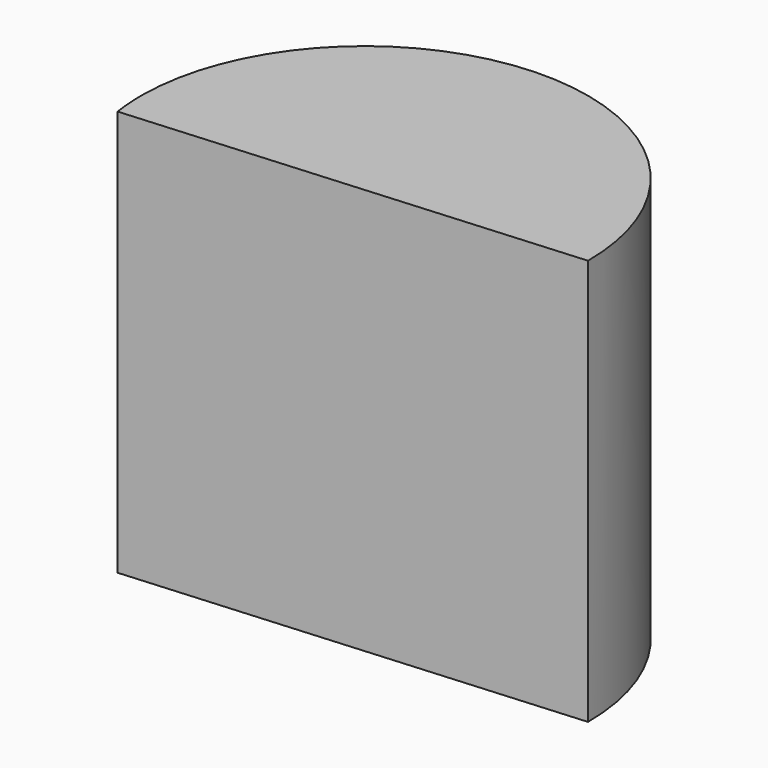
from build123d import *

# Parameters (mm, degrees)
F1_DEPTH = 50.587354


with BuildPart() as f1:
    # F0 (on Top) → F1 (new body)
    with BuildSketch(Plane.XY):
        with BuildLine():
            Line((-27.542417, -4.048588), (27.838388, 0))
            ThreePointArc((27.838388, 0), (0.120993, 27.838125), (-27.837336, 0.241984))
            ThreePointArc((-27.837336, 0.241984), (-27.772856, -1.909006), (-27.542417, -4.048588))
        make_face()
    extrude(amount=F1_DEPTH)


solid = f1.part
